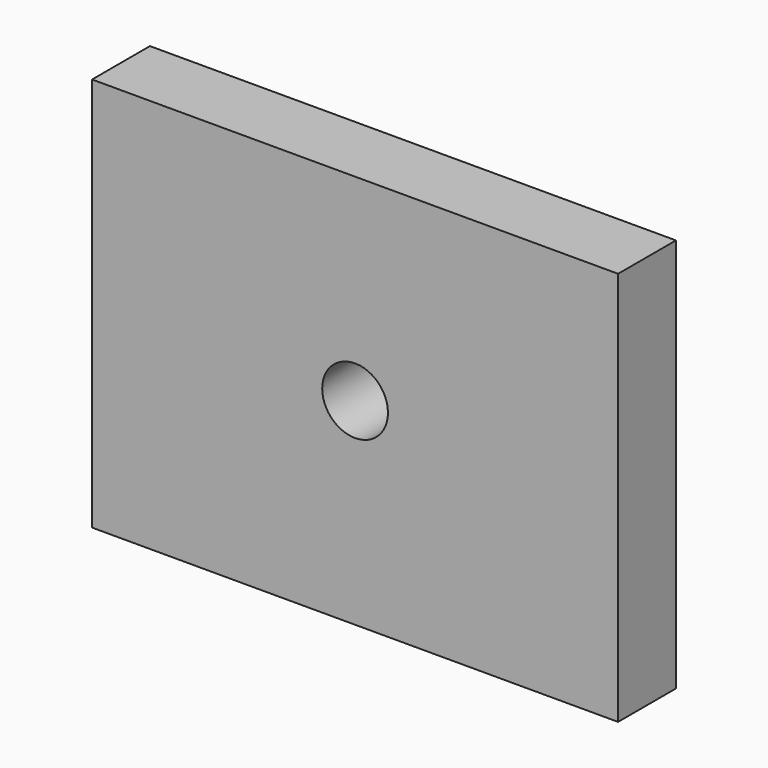
from build123d import *

# Parameters (mm, degrees)
F0_W     = 40
F0_H     = 30
F1_DEPTH = 5.5
F3_D     = 5
F3_DEPTH = 5
F3_TIP   = 1.5021515476


with BuildPart() as f1:
    # F0 (on Front) → F1 (new body)
    with BuildSketch(Plane.XZ):
        with Locations((40.8386178315, -23.0479209125)):
            Rectangle(F0_W, F0_H)
    extrude(amount=F1_DEPTH)

    # F3
    with Locations(Plane.XZ.offset(5.5)):
        with Locations((40.8386178315, -23.0479209125)):
            Hole(F3_D / 2, depth=F3_DEPTH)
            with Locations((0, 0, -(F3_DEPTH + F3_TIP / 2))):  # 118° drill point
                Cone(0, F3_D / 2, F3_TIP, mode=Mode.SUBTRACT)


solid = f1.part
